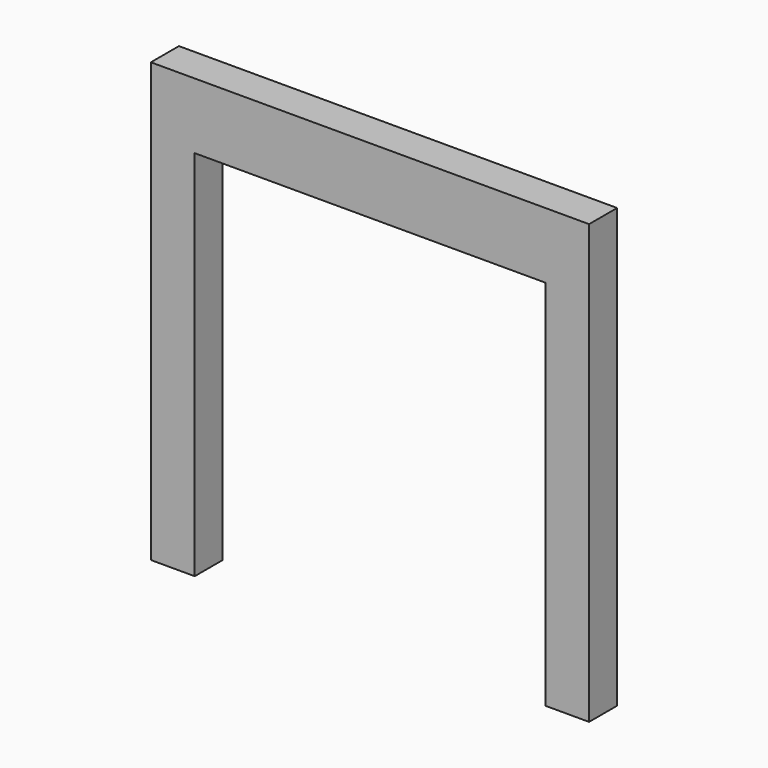
from build123d import *

# Parameters (mm, degrees)
F2_DEPTH = 80


with BuildPart() as f2:
    # F1 (on face) → F2 (new body)
    with BuildSketch(Plane.XZ):
        Polygon((-400, 0), (-400, 850), (400, 850), (400, 0), (500, 0), (500, 1000), (-500, 1000), (-500, 0), align=None)
    extrude(amount=F2_DEPTH)


solid = f2.part
